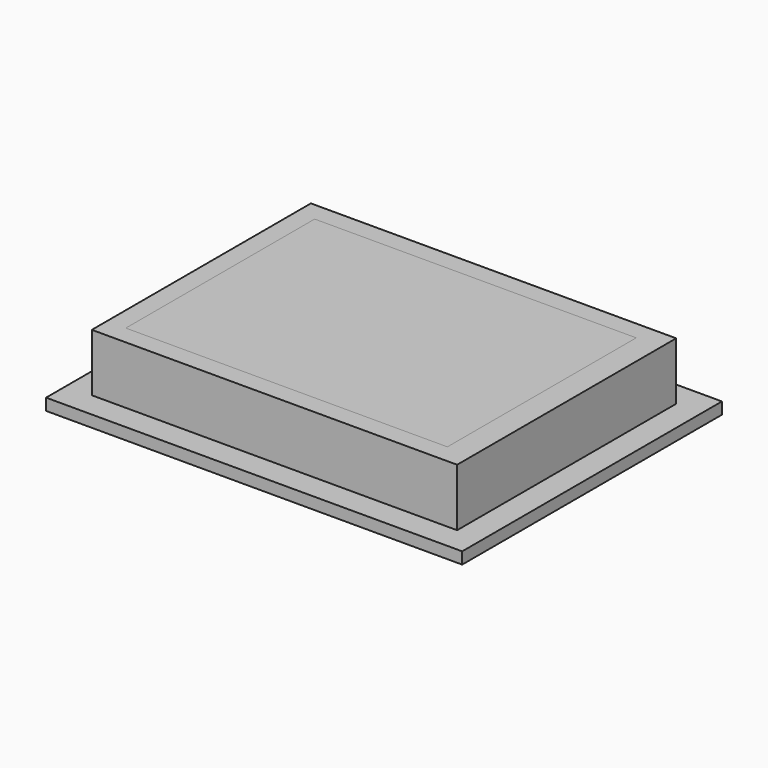
from build123d import *

# Parameters (mm, degrees)
F0_W     = 1.4
F0_H     = 55.5
F0_W_2   = 75.6
F1_DEPTH = 2.6
F2_DEPTH = 16.3
F0_W_3   = 97.8280026317
F0_H_2   = 76.3280026317
F3_DEPTH = 2.75
F5_W     = 1.4
F5_H     = 55.5
F6_DEPTH = 13.55
F5_W_2   = 85.8782771826
F5_H_2   = 64.3782771826
F7_DEPTH = 13.55


with BuildPart() as f1:
    # F0 (on Top) → F1 (new body)
    with BuildSketch(Plane.XY):
        with Locations((33.9750840545, -6.8025592566)):
            Rectangle(F0_W, F0_H)
        with Locations((-4.5249159455, -6.8025592566)):
            Rectangle(F0_W_2, F0_H)
    extrude(amount=F1_DEPTH)

    # F0 (on Top) → F2 (join)
    with BuildSketch(Plane.XY):
        with Locations((-4.5249159455, -6.8025592566)):
            Rectangle(F0_W_2, F0_H)
    extrude(amount=F2_DEPTH)


with BuildPart() as f3:
    # F0 (on Top) → F3 (new body)
    with BuildSketch(Plane.XY):
        with Locations((-3.8249159455, -6.8025592566)):
            Rectangle(F0_W_3, F0_H_2)
        Polygon((-42.3249159455, -34.5525592566), (-42.3249159455, 20.9474407434), (33.2750840545, 20.9474407434), (34.6750840545, 20.9474407434), (34.6750840545, -34.5525592566), (33.2750840545, -34.5525592566), align=None, mode=Mode.SUBTRACT)
    extrude(amount=F3_DEPTH)


with BuildPart() as f6:
    # F5 (on offset) → F6 (new body)
    with BuildSketch(Plane.XY.offset(2.75)):
        with Locations((33.9750840545, -6.8025592566)):
            Rectangle(F5_W, F5_H)
    extrude(amount=F6_DEPTH)

    # F5 (on offset) → F7 (join)
    with BuildSketch(Plane.XY.offset(2.75)):
        with Locations((-3.8249159455, -6.8025592566)):
            Rectangle(F5_W_2, F5_H_2)
        Polygon((-42.3249159455, -34.5525592566), (-42.3249159455, 20.9474407434), (33.2750840545, 20.9474407434), (34.6750840545, 20.9474407434), (34.6750840545, -34.5525592566), (33.2750840545, -34.5525592566), align=None, mode=Mode.SUBTRACT)
    extrude(amount=F7_DEPTH)


solid = Compound([f1.part, f3.part, f6.part])
